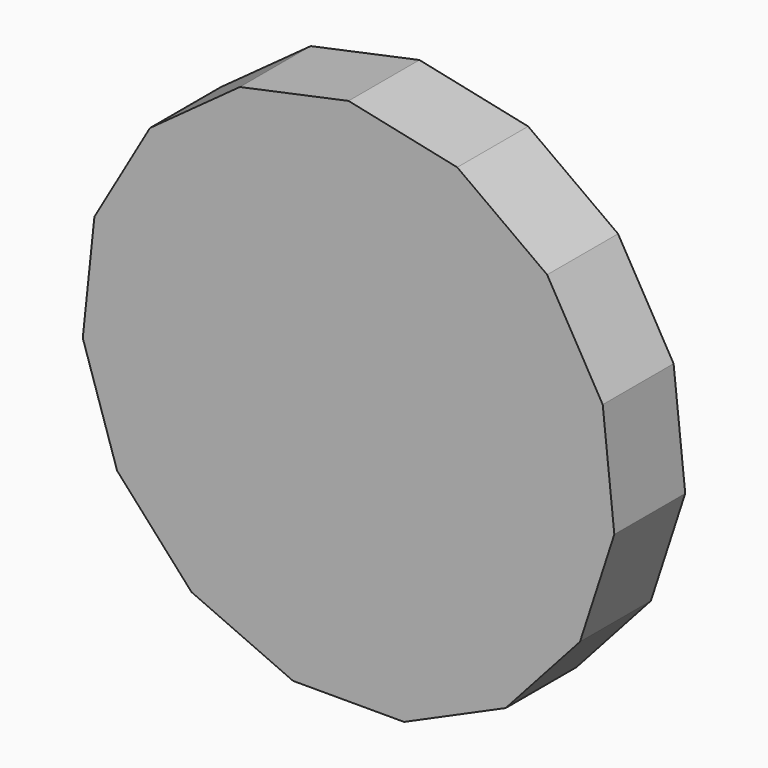
from build123d import *

# Parameters (mm, degrees)
F3_DEPTH = 20
F2_R     = 39.8942276876
F5_DEPTH = 12


with BuildPart() as f3:
    # F1 (on offset) → F3 (new body)
    with BuildSketch(Plane.XZ.offset(25.4)):
        Polygon((-12.5397381477, -58.9948296547), (12.5397381477, -58.9948296547), (35.4509797974, -48.7940876562), (52.2324249782, -30.1564046216), (59.9824093635, -6.3044052655), (57.3608902468, 18.6376830346), (44.821152099, 40.3571466201), (24.531429566, 55.0984929217), (0, 60.3128092431), (-24.531429566, 55.0984929217), (-44.821152099, 40.3571466201), (-57.3608902468, 18.6376830346), (-59.9824093635, -6.3044052655), (-52.2324249782, -30.1564046216), (-35.4509797974, -48.7940876562), align=None)
    extrude(amount=F3_DEPTH)


with BuildPart() as f3b:
    # F2 (on face) → F3, piece 2 (new body)
    with BuildSketch(Plane.XZ.offset(25.4)):
        Polygon((-35.4509797974, -48.7940876562), (-12.5397381477, -58.9948296547), (12.5397381477, -58.9948296547), (35.4509797974, -48.7940876562), (52.2324249782, -30.1564046216), (59.9824093635, -6.3044052655), (57.3608902468, 18.6376830346), (44.821152099, 40.3571466201), (24.531429566, 55.0984929217), (0, 60.3128092431), (-24.531429566, 55.0984929217), (-44.821152099, 40.3571466201), (-57.3608902468, 18.6376830346), (-59.9824093635, -6.3044052655), (-52.2324249782, -30.1564046216), align=None)
        Circle(F2_R, mode=Mode.SUBTRACT)
        Circle(F2_R)
    extrude(amount=F3_DEPTH)


with BuildPart() as f5:
    # F4 (on face) → F5 (new body)
    with BuildSketch(Plane(origin=(0, -25.4, 0), x_dir=(-1, 0, 0), z_dir=(0, 1, 0))):
        Polygon((-6.23132674, 22.4077623165), (-16.6003684143, 16.290028038), (-22.521354778, 5.8073939021), (-22.4077623165, -6.23132674), (-16.290028038, -16.6003684143), (-5.8073939021, -22.521354778), (6.23132674, -22.4077623165), (16.6003684143, -16.290028038), (22.521354778, -5.8073939021), (22.4077623165, 6.23132674), (16.290028038, 16.6003684143), (5.8073939021, 22.521354778), align=None)
    extrude(amount=F5_DEPTH)


solid = Compound([f3.part, f3b.part, f5.part])
